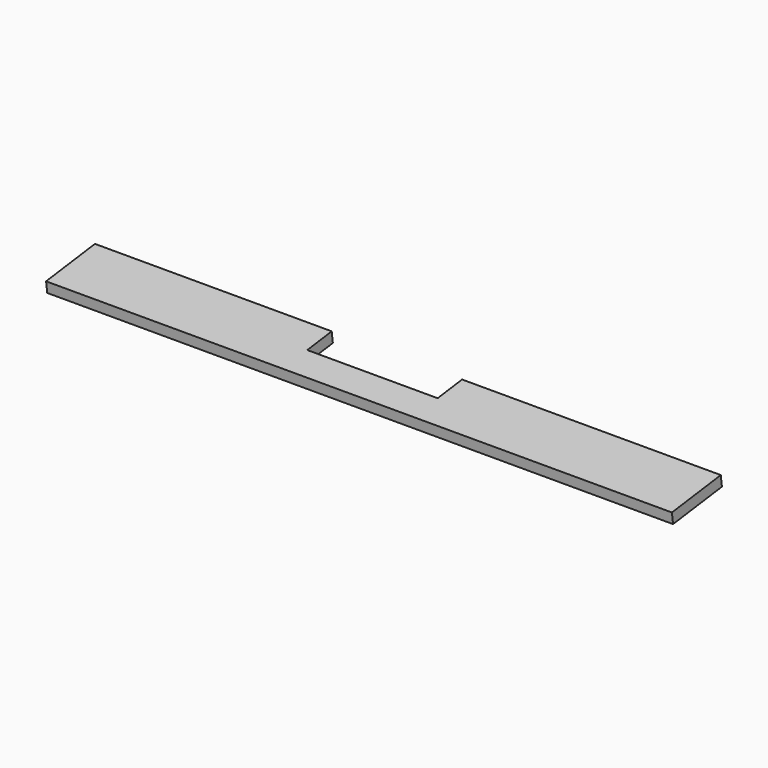
from build123d import *

# Parameters (mm, degrees)
BOX019_W               = 127
BOX019_H               = 10.668
BOX019_DEPTH           = 30
BOX019_PLACEMENT_ANGLE = 97.5889000001
BOX018_W               = 609.6
BOX018_H               = 10.668
BOX018_DEPTH           = 60
BOX018_PLACEMENT_ANGLE = 97.5889000001


with BuildPart() as screensupporthole:
    # Box019 → Box019 (new body)
    with BuildSketch(Plane.XY):
        with Locations((63.5, 5.334)):
            Rectangle(BOX019_W, BOX019_H)
    extrude(amount=BOX019_DEPTH)


with BuildPart() as screensupporthole_1:
    # Box019 placement: moved
    add(screensupporthole.part.moved(Location((241.3, 462.432, 1143.32))).rotate(Axis((241.3, 462.432, 1143.32), (1, 0, 0)), BOX019_PLACEMENT_ANGLE))


with BuildPart() as screenbottom:
    # Box018 → Box018 (new body)
    with BuildSketch(Plane.XY):
        with Locations((304.8, 5.334)):
            Rectangle(BOX018_W, BOX018_H)
    extrude(amount=BOX018_DEPTH)


with BuildPart() as screenbottom_1:
    # Box018 placement: moved
    add(screenbottom.part.moved(Location((10.668, 462.432, 1143.32))).rotate(Axis((10.668, 462.432, 1143.32), (1, 0, 0)), BOX018_PLACEMENT_ANGLE))

    # Cut003: cut ScreenSupportHole
    add(screensupporthole_1.part, mode=Mode.SUBTRACT)


solid = screenbottom_1.part
